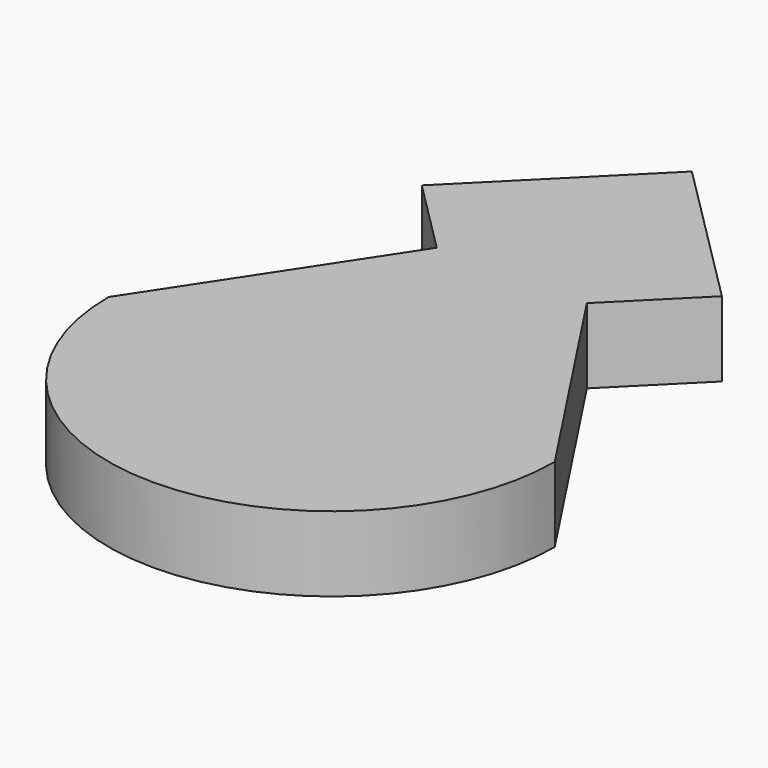
from build123d import *

# Parameters (mm, degrees)
F1_DEPTH = 10
F2_R     = 4.75
F2_R_2   = 3.25
F3_DEPTH = 3


with BuildPart() as f1:
    # F0 (on Top) → F1 (new body)
    with BuildSketch(Plane.XY):
        Polygon((10, -10), (20, 0), (0, 20), (-20, 0), (-10, -10), (0, -20), align=None)
        with BuildLine():
            Line((29.725478, -40), (10, -10))
            Line((10, -10), (0, -20))
            Line((0, -20), (-10, -10))
            Line((-10, -10), (-29.725478, -40))
            ThreePointArc((-29.725478, -40), (0, -69.725478), (29.725478, -40))
        make_face()
    extrude(amount=F1_DEPTH)

    # F2 (on Top) → F3 (cut)
    with BuildSketch(Plane.XY):
        Circle(F2_R)
        with Locations((15, -50)):
            Circle(F2_R_2)
        with Locations((-15, -50)):
            Circle(F2_R_2)
    extrude(amount=F3_DEPTH, mode=Mode.SUBTRACT)


solid = f1.part
